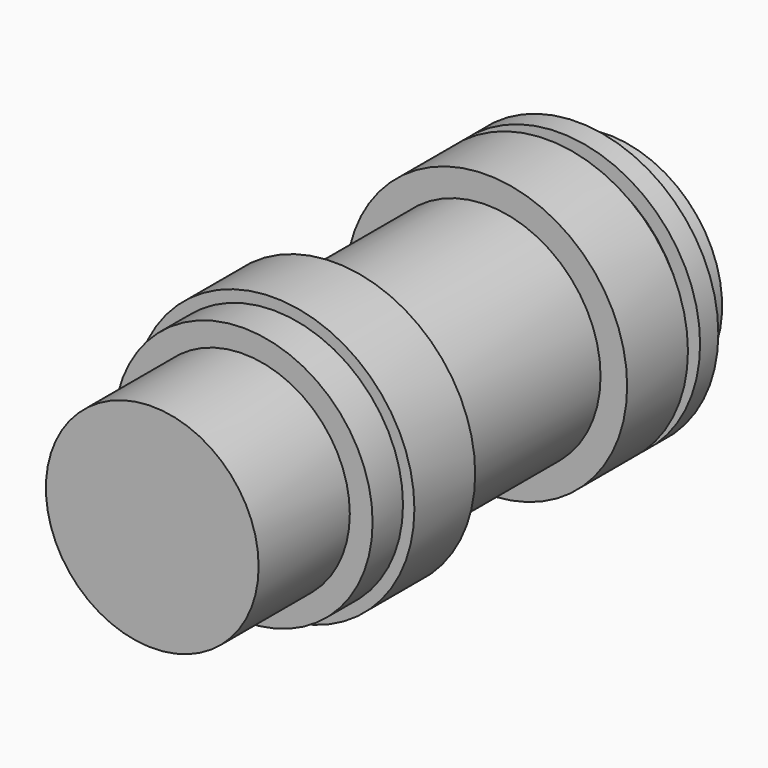
from build123d import *

# Parameters (mm, degrees)
F0_R      = 17
F1_DEPTH  = 5
F2_R      = 14
F3_DEPTH  = 15
F4_R      = 18.5
F5_DEPTH  = 10
F6_R      = 15
F7_DEPTH  = 35
F8_R      = 18.5
F9_DEPTH  = 10
F10_R     = 16.5
F11_DEPTH = 2
F12_R     = 18.5
F13_DEPTH = 3
F14_R     = 15
F15_DEPTH = 5


with BuildPart() as f1:
    # F0 (on Front) → F1 (new body)
    with BuildSketch(Plane.XZ):
        Circle(F0_R)
    extrude(amount=F1_DEPTH)

    # F2 (on face) → F3 (join)
    with BuildSketch(Plane.XZ.offset(5)):
        Circle(F2_R)
    extrude(amount=F3_DEPTH)

    # F4 (on Front) → F5 (join)
    with BuildSketch(Plane.XZ):
        Circle(F4_R)
    extrude(amount=-F5_DEPTH)

    # F6 (on Front) → F7 (join)
    with BuildSketch(Plane.XZ):
        Circle(F6_R)
    extrude(amount=-F7_DEPTH)

    # F8 (on face) → F9 (join)
    with BuildSketch(Plane(origin=(0, 35, 0), x_dir=(-1, 0, 0), z_dir=(0, 1, 0))):
        Circle(F8_R)
    extrude(amount=F9_DEPTH)

    # F10 (on face) → F11 (join)
    with BuildSketch(Plane(origin=(0, 45, 0), x_dir=(-1, 0, 0), z_dir=(0, 1, 0))):
        Circle(F10_R)
    extrude(amount=F11_DEPTH)

    # F12 (on face) → F13 (join)
    with BuildSketch(Plane(origin=(0, 47, 0), x_dir=(-1, 0, 0), z_dir=(0, 1, 0))):
        Circle(F12_R)
    extrude(amount=F13_DEPTH)

    # F14 (on face) → F15 (join)
    with BuildSketch(Plane(origin=(0, 50, 0), x_dir=(-1, 0, 0), z_dir=(0, 1, 0))):
        Circle(F14_R)
    extrude(amount=F15_DEPTH)


solid = f1.part
